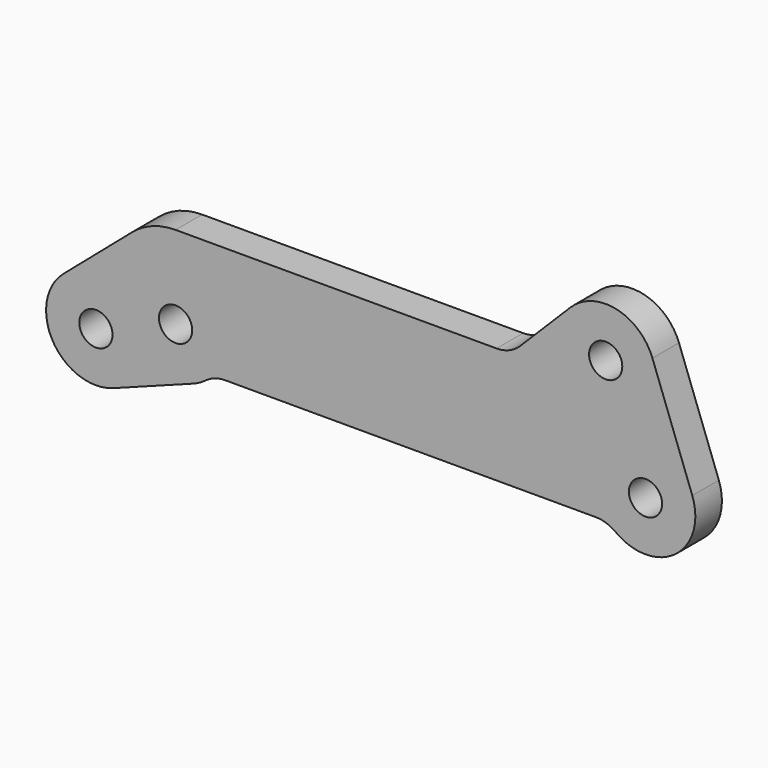
from build123d import *

# Parameters (mm, degrees)
F0_R     = 5
F1_DEPTH = 10


with BuildPart() as f1:
    # F0 (on Front) → F1 (new body)
    with BuildSketch(Plane.XZ):
        with BuildLine():
            Line((-90.219553, -23.044115), (-66.230954, -14.044115))
            ThreePointArc((-66.230954, -14.044115), (-64.292641, -13.154998), (-62.5, -12))
            ThreePointArc((-62.5, -12), (-59.662278, -10.513167), (-56.5, -10))
            Line((-56.5, -10), (55, -10))
            ThreePointArc((55, -10), (58.162278, -10.513167), (61, -12))
            ThreePointArc((61, -12), (78.963936, -12.026963), (84.071447, 5.195611))
            Line((84.071447, 5.195611), (72.071447, 37.695611))
            ThreePointArc((72.071447, 37.695611), (61.21263, 47.151928), (47.393398, 43.106602))
            Line((47.393398, 43.106602), (32.215729, 27.928932))
            ThreePointArc((32.215729, 27.928932), (28.971495, 25.761205), (25.144661, 25))
            Line((25.144661, 25), (-71.5, 25))
            ThreePointArc((-71.5, 25), (-78.44511, 23.755411), (-84.525839, 20.176545))
            Line((-84.525839, 20.176545), (-105.257978, 2.382409))
            ThreePointArc((-105.257978, 2.382409), (-108.399458, -16.636081), (-90.219553, -23.044115))
        make_face()
        with Locations((-95.488599, -9)):
            Circle(F0_R, mode=Mode.SUBTRACT)
        with Locations((-71.5, 0)):
            Circle(F0_R, mode=Mode.SUBTRACT)
        with Locations((70, 0)):
            Circle(F0_R, mode=Mode.SUBTRACT)
        with Locations((58, 32.5)):
            Circle(F0_R, mode=Mode.SUBTRACT)
    extrude(amount=F1_DEPTH)


solid = f1.part
